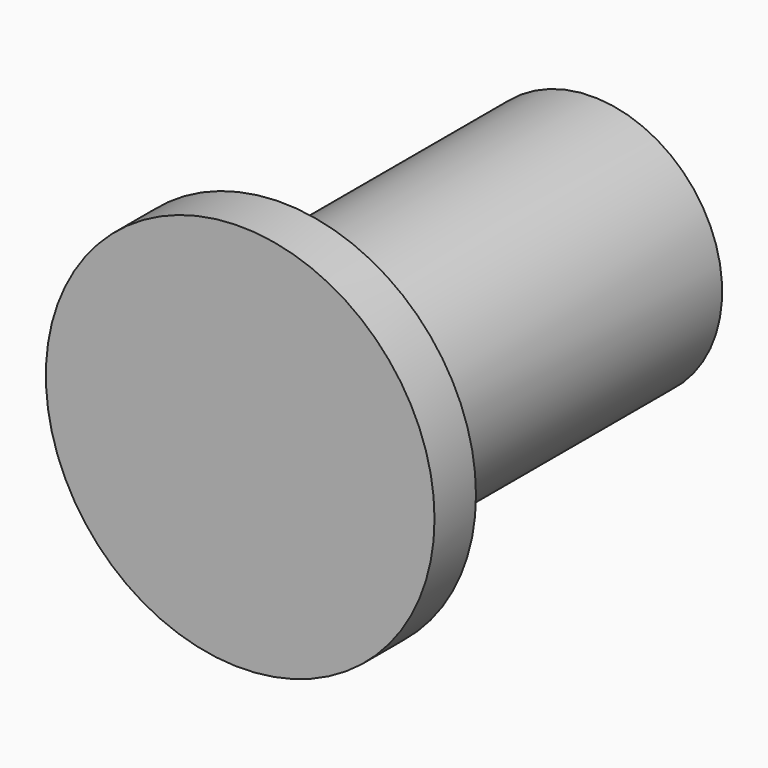
from build123d import *

# Parameters (mm, degrees)
F0_R     = 15
F1_DEPTH = 4
F2_R     = 10
F3_DEPTH = 30
F4_R     = 4
F5_DEPTH = 27
F6_DEPTH = 6


with BuildPart() as f1:
    # F0 (on Front) → F1 (new body)
    with BuildSketch(Plane.XZ):
        Circle(F0_R)
    extrude(amount=F1_DEPTH)

    # F2 (on face) → F3 (join)
    with BuildSketch(Plane(origin=(0, 0, 0), x_dir=(-1, 0, 0), z_dir=(0, 1, 0))):
        Circle(F2_R)
    extrude(amount=F3_DEPTH)

    # F4 (on Top) → F5 (cut)
    with BuildSketch(Plane.XY):
        with Locations((0, 19.828215)):
            Circle(F4_R)
    extrude(amount=-F5_DEPTH, mode=Mode.SUBTRACT)

    # F4 (on Top) → F6 (cut)
    with BuildSketch(Plane.XY):
        with Locations((0, 19.828215)):
            Circle(F4_R)
    extrude(amount=F6_DEPTH, mode=Mode.SUBTRACT)


solid = f1.part
